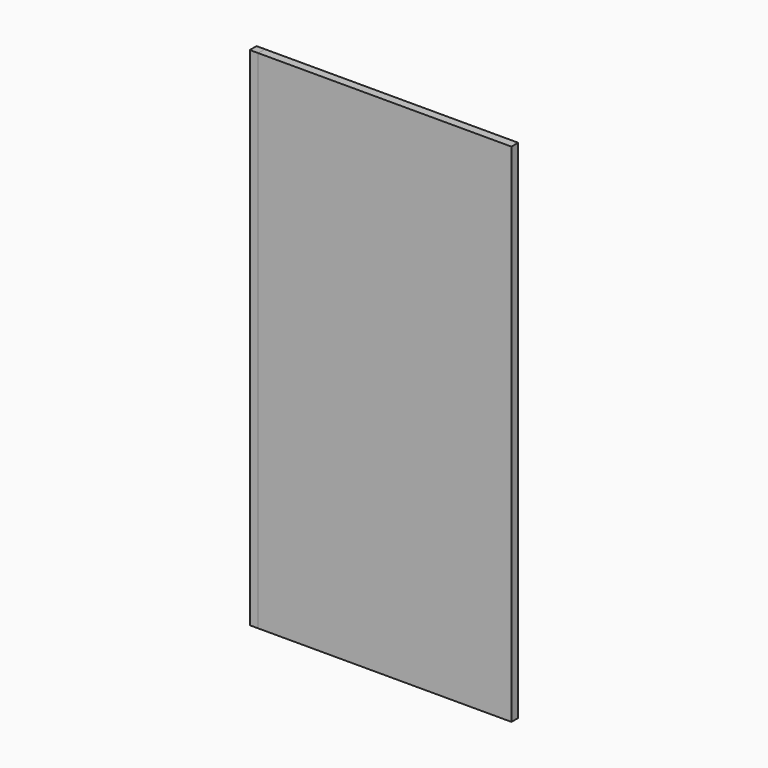
from build123d import *

# Parameters (mm, degrees)
F0_W     = 76.2
F0_H     = 152.4
F1_DEPTH = 2.54
F2_W     = 8.89
F2_H     = 88.9
F3_DEPTH = 2.54
F4_DEPTH = 2.54
F6_D     = 6.35


with BuildPart() as f1:
    # F0 (on Front) → F1 (new body)
    with BuildSketch(Plane.XZ):
        with Locations((-38.1, 76.2)):
            Rectangle(F0_W, F0_H)
    extrude(amount=F1_DEPTH)


with BuildPart() as f3:
    # F2 (on face) → F3 (new body)
    with BuildSketch(Plane(origin=(-76.2, 0, 0), x_dir=(0, -1, 0), z_dir=(-1, 0, 0))):
        with Locations((-4.445, 76.2)):
            Rectangle(F2_W, F2_H)
    extrude(amount=F3_DEPTH)

    # F6 (through all)
    with Locations(Plane(origin=(-78.74, 0, 0), x_dir=(0, -1, 0), z_dir=(-1, 0, 0))):
        with Locations((-4.4812513515, 75.7189393044)):
            Hole(F6_D / 2)


with BuildPart() as f4:
    # F4 (new): a face of the model
    f4_faces = [f1.part.faces().sort_by_distance(p)[0] for p in [
        (-76.2, -1.27, 76.2),
    ]]
    extrude(f4_faces, amount=F4_DEPTH)


solid = Compound([f1.part, f3.part, f4.part])
